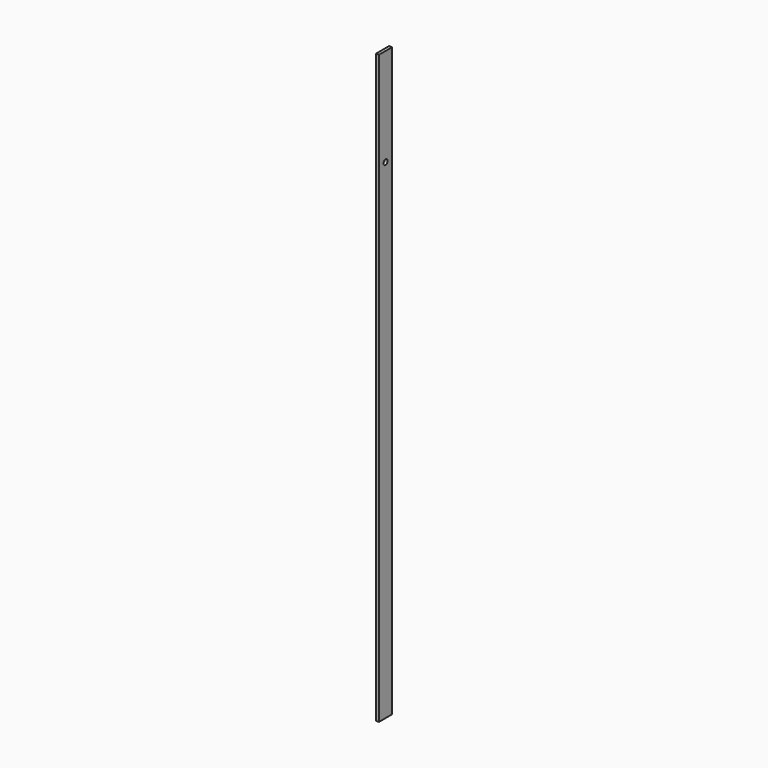
from build123d import *

# Parameters (mm, degrees)
F0_W     = 9.525
F0_H     = 50.8
F1_DEPTH = 914.4
F2_R     = 7.9375
F3_DEPTH = 9.526


with BuildPart() as f1:
    # F0 (on Top) → F1 (new body, symmetric)
    with BuildSketch(Plane.XY):
        Rectangle(F0_W, F0_H)
    extrude(amount=F1_DEPTH, both=True)

    # F2 (on face) → F3 (cut, through all)
    with BuildSketch(Plane.YZ.offset(4.7625)):
        with Locations((0, 609.6)):
            Circle(F2_R)
    extrude(amount=-F3_DEPTH, mode=Mode.SUBTRACT)


solid = f1.part
